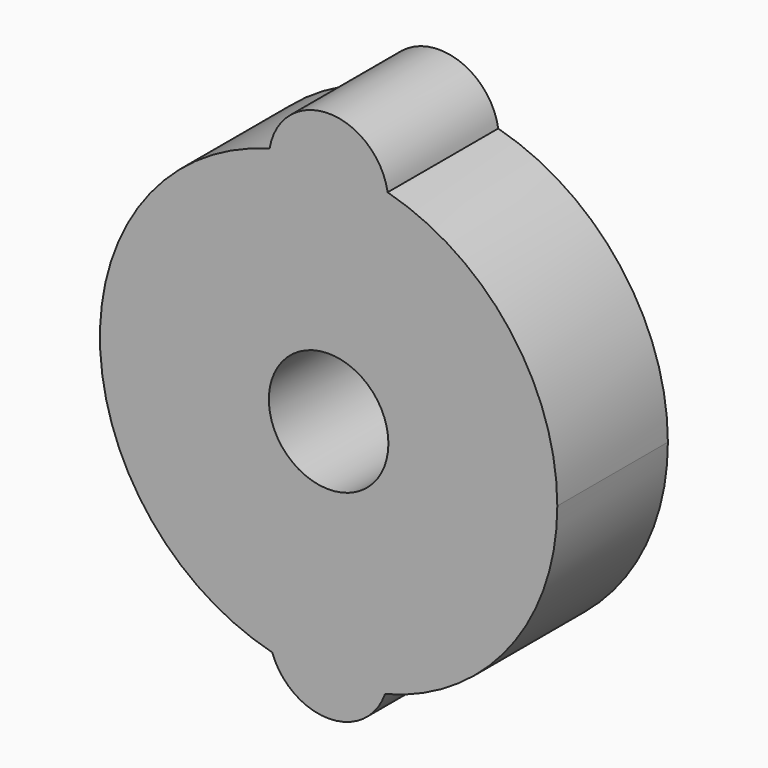
from build123d import *

# Parameters (mm, degrees)
F0_R     = 10.9855
F1_DEPTH = 25.4


with BuildPart() as f1:
    # F0 (on Front) → F1 (new body)
    with BuildSketch(Plane.XZ):
        with BuildLine():
            ThreePointArc((10.3587602318, -40.7273007836), (33.176298225, -25.7943826974), (42.0240043624, 0))
            ThreePointArc((42.0240043624, 0), (33.3302983089, 25.5950807245), (10.8461969529, 40.6002087964))
            ThreePointArc((10.8461969529, 40.6002087964), (10.950618861, 39.7310312709), (10.9855, 38.8562988478))
            ThreePointArc((10.9855, 38.8562988478), (-0.8747324231, 27.9056799868), (-10.8461969529, 40.6002087964))
            ThreePointArc((-10.8461969529, 40.6002087964), (-42.0232495878, -0.2518664975), (-10.3587602318, -40.7273007836))
            ThreePointArc((-10.3587602318, -40.7273007836), (-1.8554042314, -26.2421206466), (10.9855, -37.0698020877))
            ThreePointArc((10.9855, -37.0698020877), (10.827681441, -38.9252063191), (10.3587602318, -40.7273007836))
        make_face()
        Circle(F0_R, mode=Mode.SUBTRACT)
        with BuildLine():
            ThreePointArc((10.9855, 38.8562988478), (10.950618861, 39.7310312709), (10.8461969529, 40.6002087964))
            ThreePointArc((10.8461969529, 40.6002087964), (0, 42.0240043624), (-10.8461969529, 40.6002087964))
            ThreePointArc((-10.8461969529, 40.6002087964), (-0.8747324231, 27.9056799868), (10.9855, 38.8562988478))
        make_face()
        with BuildLine():
            ThreePointArc((-10.8461969529, 40.6002087964), (0, 42.0240043624), (10.8461969529, 40.6002087964))
            ThreePointArc((10.8461969529, 40.6002087964), (0, 49.8417988478), (-10.8461969529, 40.6002087964))
        make_face()
        with BuildLine():
            ThreePointArc((-10.3587602318, -40.7273007836), (0, -48.0553020877), (10.3587602318, -40.7273007836))
            ThreePointArc((10.3587602318, -40.7273007836), (0, -42.0240043624), (-10.3587602318, -40.7273007836))
        make_face()
        with BuildLine():
            ThreePointArc((-10.3587602318, -40.7273007836), (0, -42.0240043624), (10.3587602318, -40.7273007836))
            ThreePointArc((10.3587602318, -40.7273007836), (10.827681441, -38.9252063191), (10.9855, -37.0698020877))
            ThreePointArc((10.9855, -37.0698020877), (-1.8554042314, -26.2421206466), (-10.3587602318, -40.7273007836))
        make_face()
    extrude(amount=F1_DEPTH)


solid = f1.part
